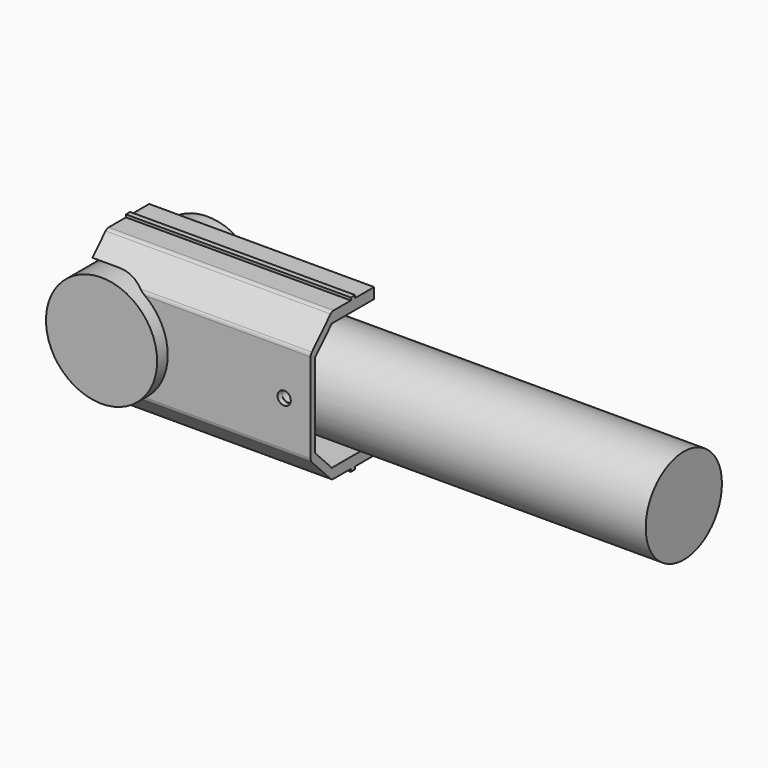
from build123d import *

# Parameters (mm, degrees)
F0_R      = 21
F1_DEPTH  = 25
F2_R      = 18
F3_DEPTH  = 200
F5_R      = 2.5
F6_DEPTH  = 30
F9_DEPTH  = 85
F11_DEPTH = 85
F13_DEPTH = 45.0010001
F14_R     = 2.5
F15_DEPTH = 45.0010001
F17_R     = 2


with BuildPart() as f1:
    # F0 (on Front) → F1 (new body, symmetric)
    with BuildSketch(Plane.XZ):
        Circle(F0_R)
    extrude(amount=F1_DEPTH, both=True)

    # F2 (on Right) → F3 (join)
    with BuildSketch(Plane.YZ):
        Circle(F2_R)
    extrude(amount=F3_DEPTH)

    # F5 (on offset) → F6 (cut)
    with BuildSketch(Plane.XZ.offset(18)):
        with Locations((65, 0)):
            Circle(F5_R)
    extrude(amount=-F6_DEPTH, mode=Mode.SUBTRACT)


with BuildPart() as f9:
    # F8 (on offset) → F9 (new body)
    with BuildSketch(Plane.YZ.offset(-10)):
        Polygon((0, 24), (0, 29), (-1, 29), (-1, 28), (-10, 28), (-10, 24), align=None)
        Polygon((1, 29), (0, 29), (0, 24), (10, 24), (10, 28), (1, 28), align=None)
    extrude(amount=F9_DEPTH)


with BuildPart() as f9b:
    # F8 (on offset) → F9, piece 2 (new body)
    with BuildSketch(Plane.YZ.offset(-10)):
        Polygon((0, -29), (0, -24), (-10, -24), (-10, -28), (-1, -28), (-1, -29), align=None)
        Polygon((10, -24), (0, -24), (0, -29), (1, -29), (1, -28), (10, -28), align=None)
    extrude(amount=F9_DEPTH)


with BuildPart() as f11:
    # F10 (on face) → F11 (new body)
    with BuildSketch(Plane.YZ.offset(75)):
        Polygon((-18, -15.7878436148), (-18, 0), (-20, 0), (-20, -17.7348045185), (-10, -28), (-10, -24), align=None)
        Polygon((-20, 0), (-18, 0), (-18, 15.7878436148), (-10, 24), (-10, 28), (-20, 17.7348045185), align=None)
    extrude(amount=-F11_DEPTH)

    # F12 (on face) → F13 (cut, through all)
    with BuildSketch(Plane.XZ.offset(20)):
        with BuildLine():
            ThreePointArc((0, -21), (14.8492424049, -14.8492424049), (21, 0))
            ThreePointArc((21, 0), (14.8492424049, 14.8492424049), (0, 21))
            ThreePointArc((0, 21), (-5.1580087454, 20.356692899), (-10, 18.4661853126))
            ThreePointArc((-10, 18.4661853126), (-21, 0), (-10, -18.4661853126))
            ThreePointArc((-10, -18.4661853126), (-5.1580087454, -20.356692899), (0, -21))
        make_face()
        with BuildLine():
            ThreePointArc((-10, 18.4661853126), (-5.1580087454, 20.356692899), (0, 21))
            Line((0, 21), (-10, 21))
            Line((-10, 21), (-10, 18.4661853126))
        make_face()
        with BuildLine():
            Line((-10, -21), (0, -21))
            ThreePointArc((0, -21), (-5.1580087454, -20.356692899), (-10, -18.4661853126))
            Line((-10, -18.4661853126), (-10, -21))
        make_face()
    extrude(amount=-F13_DEPTH, mode=Mode.SUBTRACT)

    # F14 (on face) → F15 (cut, through all)
    with BuildSketch(Plane.XZ.offset(20)):
        with Locations((65, 0)):
            Circle(F14_R)
    extrude(amount=-F15_DEPTH, mode=Mode.SUBTRACT)


with BuildPart() as f9_1:
    add(f9.part)

    # F16: union F9b, F11
    add(f9b.part)
    add(f11.part)

    # F17
    f17_edges = [f9_1.edges().sort_by_distance(p)[0] for p in [
        (32.5, -10, 28),
        (43.123093, -20, 17.734805),
        (43.123093, -20, -17.734805),
        (32.5, -10, -28),
    ]]
    fillet(f17_edges, radius=F17_R)


solid = Compound([f1.part, f9_1.part])
